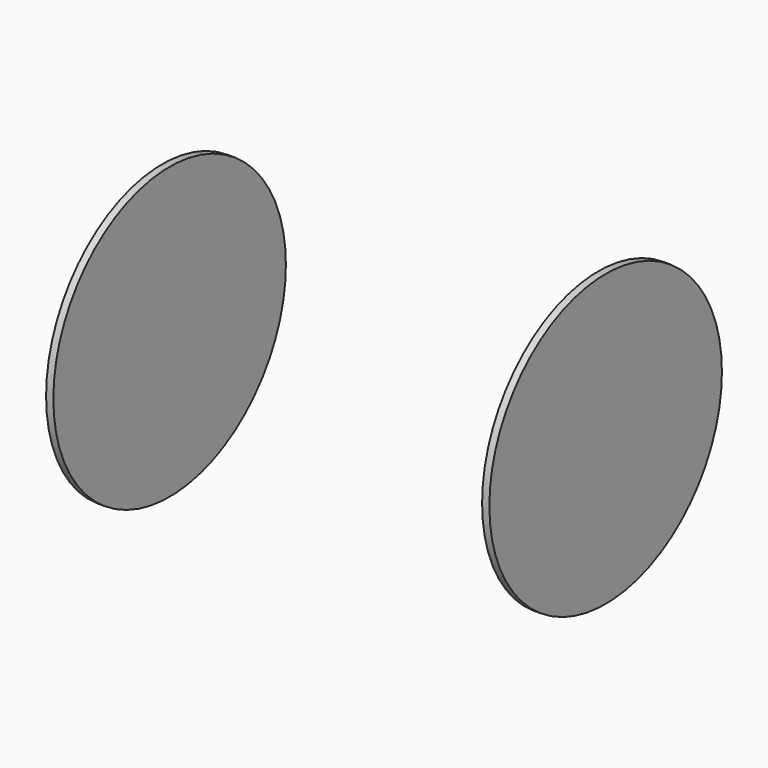
from build123d import *

# Parameters (mm, degrees)
F4_R     = 50.8
F5_DEPTH = 2.54
F3_R     = 50.8


with BuildPart() as f5:
    # F4 (on offset) → F5 (new body)
    with BuildSketch(Plane.YZ.offset(76.2)):
        Circle(F4_R)
    extrude(amount=F5_DEPTH)


with BuildPart() as f5b:
    # F3 (on offset) → F5, piece 2 (new body)
    with BuildSketch(Plane.YZ.offset(-76.2)):
        with Locations((0, -16.6005805411)):
            Circle(F3_R)
    extrude(amount=F5_DEPTH)


solid = Compound([f5.part, f5b.part])
